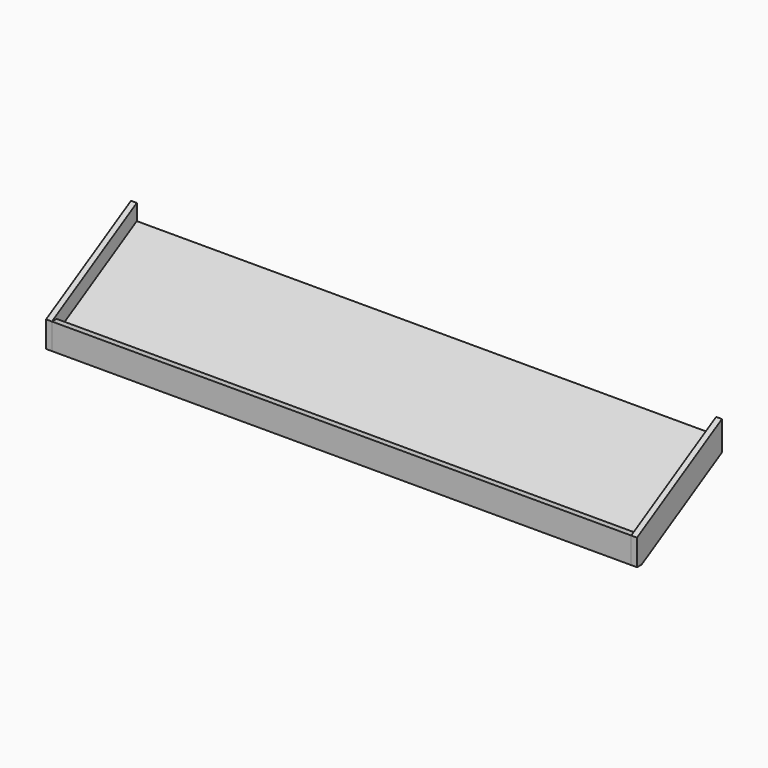
from build123d import *

# Parameters (mm, degrees)
F1_DEPTH = 500
F2_W     = 10
F2_H     = 45
F3_DEPTH = 1000
F5_DEPTH = 10


with BuildPart() as f1:
    # F0 (on Right) → F1 (new body, symmetric)
    with BuildSketch(Plane.YZ):
        Polygon((-173.205081, 0), (0, 100), (0, 123.094011), (-173.205081, 23.094011), align=None)
    extrude(amount=F1_DEPTH, both=True)


with BuildPart() as f3:
    # F2 (on face) → F3 (new body)
    with BuildSketch(Plane(origin=(-500, 0, 0), x_dir=(0, -1, 0), z_dir=(-1, 0, 0))):
        with Locations((178.205081, 22.5)):
            Rectangle(F2_W, F2_H)
    extrude(amount=-F3_DEPTH)


with BuildPart() as f5:
    # F4 (on face) → F5 (new body)
    with BuildSketch(Plane(origin=(-500, 0, 0), x_dir=(0, -1, 0), z_dir=(-1, 0, 0))):
        Polygon((0, 150.773503), (0, 100), (173.205081, 0), (183.205081, 0), (183.205081, 45), align=None)
    extrude(amount=F5_DEPTH)


with BuildPart() as f6_1:
    # F6: instance of F5
    add(f5.part.mirror(Plane.YZ))


solid = Compound([f1.part, f3.part, f5.part, f6_1.part])
